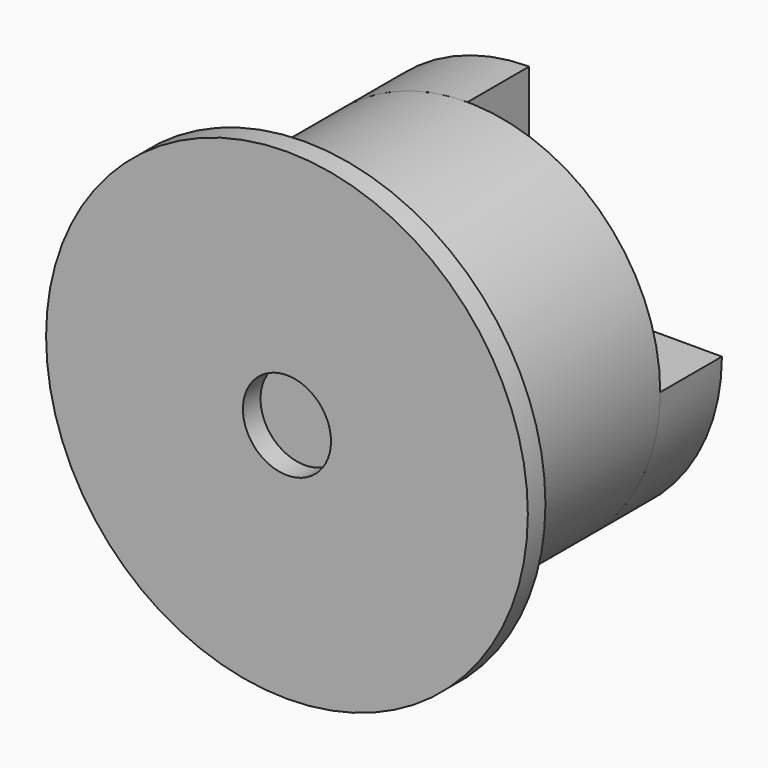
from build123d import *

# Parameters (mm, degrees)
F0_R     = 7
F1_DEPTH = 7.4
F2_R     = 8.75
F2_R_2   = 7
F2_R_3   = 1.6
F3_DEPTH = 0.8
F5_DEPTH = 2.8


with BuildPart() as f1:
    # F0 (on Front) → F1 (new body)
    with BuildSketch(Plane.XZ):
        Circle(F0_R)
    extrude(amount=F1_DEPTH)


with BuildPart() as f3:
    # F2 (on face) → F3 (new body)
    with BuildSketch(Plane.XZ.offset(7.4)):
        Circle(F2_R)
        Circle(F2_R_2, mode=Mode.SUBTRACT)
        Circle(F2_R_2)
        Circle(F2_R_3, mode=Mode.SUBTRACT)
    extrude(amount=F3_DEPTH)


with BuildPart() as f5:
    # F4 (on face) → F5 (new body)
    with BuildSketch(Plane(origin=(0, 0, 0), x_dir=(-1, 0, 0), z_dir=(0, 1, 0))):
        with BuildLine():
            ThreePointArc((-7, 0), (4.9497474683, -4.9497474683), (0, 7))
            Line((0, 7), (0, 1.6))
            ThreePointArc((0, 1.6), (1.1313708499, -1.1313708499), (-1.6, 0))
            Line((-1.6, 0), (-7, 0))
        make_face()
    extrude(amount=F5_DEPTH)


solid = Compound([f1.part, f3.part, f5.part])
